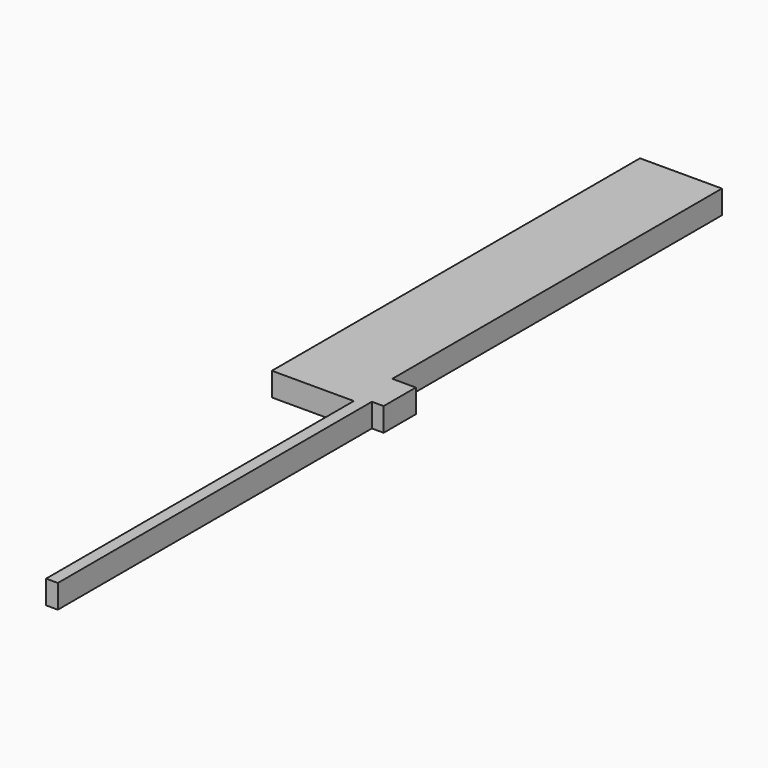
from build123d import *

# Parameters (mm, degrees)
F0_W     = 26.502896
F0_H     = 148.872193
F1_DEPTH = 7.62
F2_W     = 13.007119
F2_H     = 7.62
F3_DEPTH = 7.62
F4_W     = 3.81
F4_H     = 7.62
F5_DEPTH = 127


with BuildPart() as f1:
    # F0 (on Top) → F1 (new body)
    with BuildSketch(Plane.XY):
        with Locations((-37.95266, -41.353592)):
            Rectangle(F0_W, F0_H)
    extrude(amount=F1_DEPTH)

    # F2 (on face) → F3 (join)
    with BuildSketch(Plane.YZ.offset(-24.701212)):
        with Locations((-106.736221, 3.81)):
            Rectangle(F2_W, F2_H)
    extrude(amount=F3_DEPTH)

    # F4 (on face) → F5 (join)
    with BuildSketch(Plane.XZ.offset(113.23978)):
        with Locations((-22.796212, 3.81)):
            Rectangle(F4_W, F4_H)
    extrude(amount=F5_DEPTH)


solid = f1.part
